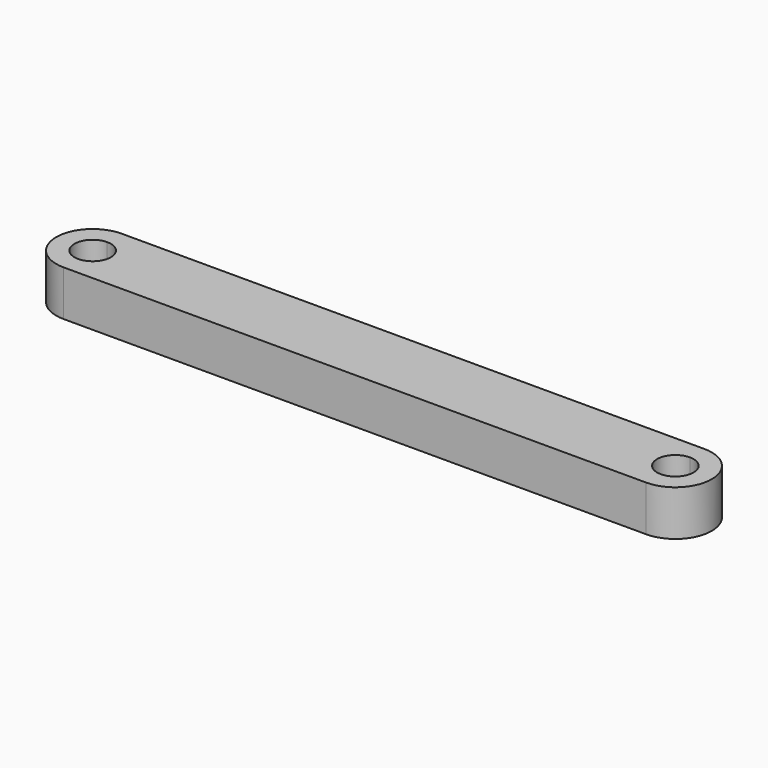
from build123d import *

# Parameters (mm, degrees)
F1_DEPTH = 3.175


with BuildPart() as f1:
    # F0 (on Top) → F1 (new body)
    with BuildSketch(Plane.XY):
        with BuildLine():
            Line((20.32, 1.27), (20.32, 2.54))
            Line((20.32, 2.54), (-20.32, 2.54))
            Line((-20.32, 2.54), (-20.32, 1.27))
            ThreePointArc((-20.32, 1.27), (-19.421974, 0.898026), (-19.05, 0))
            ThreePointArc((-19.05, 0), (-19.421974, -0.898026), (-20.32, -1.27))
            Line((-20.32, -1.27), (-20.32, -2.54))
            Line((-20.32, -2.54), (20.32, -2.54))
            Line((20.32, -2.54), (20.32, -1.27))
            ThreePointArc((20.32, -1.27), (19.05, 0), (20.32, 1.27))
        make_face()
        with BuildLine():
            ThreePointArc((20.32, -2.54), (22.86, 0), (20.32, 2.54))
            Line((20.32, 2.54), (20.32, 1.27))
            ThreePointArc((20.32, 1.27), (21.218026, 0.898026), (21.59, 0))
            ThreePointArc((21.59, 0), (21.218026, -0.898026), (20.32, -1.27))
            Line((20.32, -1.27), (20.32, -2.54))
        make_face()
        with BuildLine():
            Line((-20.32, 1.27), (-20.32, 2.54))
            ThreePointArc((-20.32, 2.54), (-22.86, 0), (-20.32, -2.54))
            Line((-20.32, -2.54), (-20.32, -1.27))
            ThreePointArc((-20.32, -1.27), (-21.59, 0), (-20.32, 1.27))
        make_face()
    extrude(amount=F1_DEPTH)


solid = f1.part
